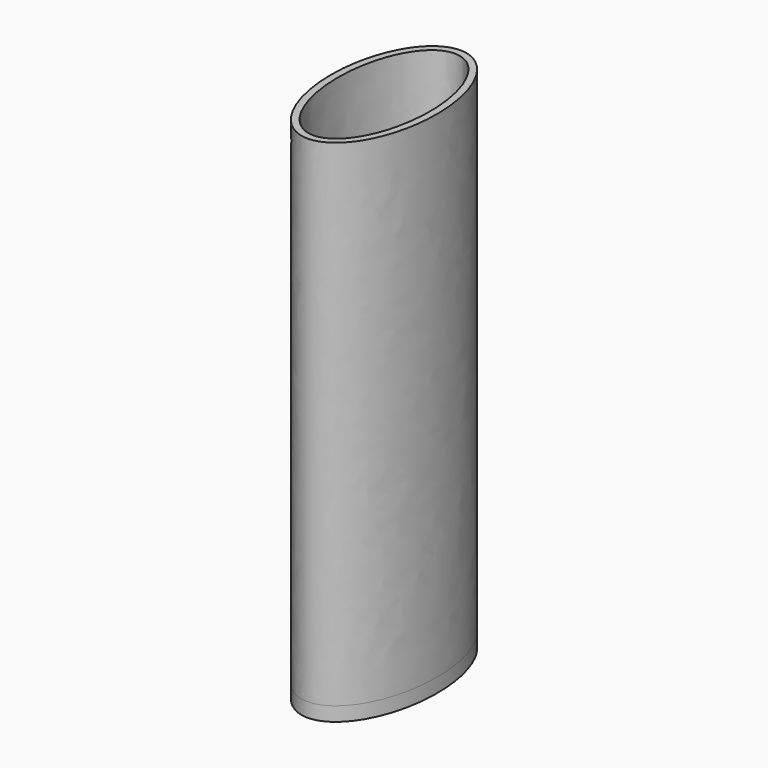
from build123d import *

# Parameters (mm, degrees)
F1_DEPTH = 70
F3_DEPTH = 2


with BuildPart() as f1:
    # F0 (on Top) → F1 (new body)
    with BuildSketch(Plane.XY):
        with BuildLine():
            add(Edge.make_bspline(
                [(0, -13.5), (12.990381, -13.5), (6.495191, 6.75), (0, 27), (-6.495191, 6.75), (-12.990381, -13.5), (0, -13.5)],
                knots=[0, 0, 0, 2.094395, 2.094395, 4.18879, 4.18879, 6.283185, 6.283185, 6.283185], degree=2, weights=[1, 0.5, 1, 0.5, 1, 0.5, 1]))
        make_face()
        with BuildLine():
            add(Edge.make_bspline(
                [(0, -12.5), (11.25833, -12.5), (5.629165, 6.25), (0, 25), (-5.629165, 6.25), (-11.25833, -12.5), (0, -12.5)],
                knots=[0, 0, 0, 2.094395, 2.094395, 4.18879, 4.18879, 6.283185, 6.283185, 6.283185], degree=2, weights=[1, 0.5, 1, 0.5, 1, 0.5, 1]))
        make_face(mode=Mode.SUBTRACT)
    extrude(amount=F1_DEPTH)

    # F2 (on face) → F3 (join)
    with BuildSketch(Plane(origin=(0, 0, 0), x_dir=(1, 0, 0), z_dir=(0, 0, -1))):
        with BuildLine():
            add(Edge.make_bspline(
                [(0, -13.5), (12.990381, -13.5), (6.495191, 6.75), (0, 27), (-6.495191, 6.75), (-12.990381, -13.5), (0, -13.5)],
                knots=[0, 0, 0, 2.094395, 2.094395, 4.18879, 4.18879, 6.283185, 6.283185, 6.283185], degree=2, weights=[1, 0.5, 1, 0.5, 1, 0.5, 1]))
        make_face()
    extrude(amount=F3_DEPTH)


solid = f1.part
